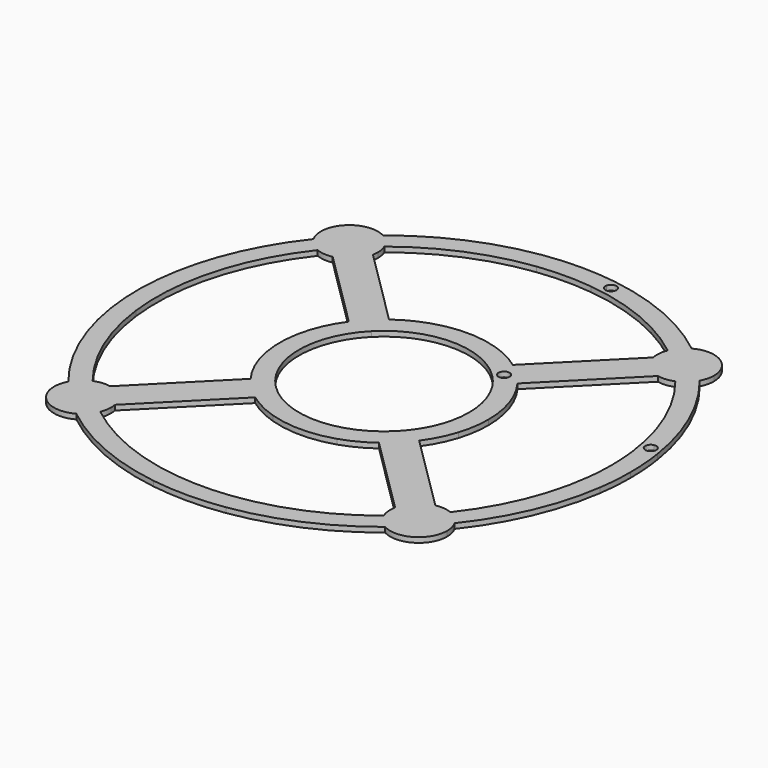
from build123d import *

# Parameters (mm, degrees)
F1_R     = 1.75
F2_DEPTH = 1.6


with BuildPart() as f2:
    # F1 (on Top) → F2 (new body)
    with BuildSketch(Plane.XY):
        with BuildLine():
            ThreePointArc((-26.6729625191, 19.4307249082), (-23.4209722091, 23.2477538868), (-19.628188614, 26.5279892139))
            Line((-19.628188614, 26.5279892139), (-44.3959890576, 51.1126103771))
            ThreePointArc((-44.3959890576, 51.1126103771), (-46.8419444181, 46.4955077737), (-51.4407629627, 44.0153460713))
            Line((-51.4407629627, 44.0153460713), (-26.6729625191, 19.4307249082))
        make_face()
        with BuildLine():
            ThreePointArc((44.4935100223, 56.6067802113), (50.7223715074, 51.1003036064), (56.2749347056, 44.9124896201))
            ThreePointArc((56.2749347056, 44.9124896201), (57.6209363633, 45.6069830087), (58.8314158832, 46.5173570313))
            ThreePointArc((58.8314158832, 46.5173570313), (52.8358036535, 53.2294829234), (46.0793558512, 59.1751042613))
            ThreePointArc((46.0793558512, 59.1751042613), (45.1779925873, 57.9579001717), (44.4935100223, 56.6067802113))
        make_face()
        with BuildLine():
            ThreePointArc((46.0793558512, 59.1751042613), (52.8358036535, 53.2294829234), (58.8314158832, 46.5173570313))
            ThreePointArc((58.8314158832, 46.5173570313), (59.8912744536, 47.6419672152), (60.743123089, 48.9313089687))
            ThreePointArc((60.743123089, 48.9313089687), (54.9492357996, 55.3586622403), (48.4790502235, 61.1046781305))
            ThreePointArc((48.4790502235, 61.1046781305), (47.1960674685, 60.2432818771), (46.0793558512, 59.1751042613))
        make_face()
        with BuildLine():
            ThreePointArc((59.1751040782, -46.0793560864), (57.9578999922, -45.1779928177), (56.6067800345, -44.4935102473))
            ThreePointArc((56.6067800345, -44.4935102473), (51.1003034048, -50.7223717105), (44.9124893964, -56.2749348842))
            ThreePointArc((44.9124893964, -56.2749348842), (45.6069827796, -57.6209365446), (46.5173567974, -58.8314160681))
            ThreePointArc((46.5173567974, -58.8314160681), (53.2294827133, -52.8358038651), (59.1751040782, -46.0793560864))
        make_face()
        with BuildLine():
            ThreePointArc((31.3926029739, 10.1737150796), (29.3435770147, 15.0981617418), (26.5279889799, 19.6281889303))
            ThreePointArc((26.5279889799, 19.6281889303), (23.2477536075, 23.4209724863), (19.4307245901, 26.6729627508))
            ThreePointArc((19.4307245901, 26.6729627508), (14.8799214401, 29.4548457463), (9.9404000552, 31.4672599179))
            ThreePointArc((9.9404000552, 31.4672599179), (13.9499388466, 24.9187160984), (18.9504414911, 19.0916412939))
            ThreePointArc((18.9504414911, 19.0916412939), (24.8144757312, 14.1345320797), (31.3926029739, 10.1737150796))
        make_face()
        with BuildLine():
            ThreePointArc((23.9786498541, 21.1853342035), (22.1626219281, 18.4619893235), (18.9504414911, 19.0916412939))
            ThreePointArc((18.9504414911, 19.0916412939), (19.8946777801, 23.9086790835), (23.9786498541, 21.1853342035))
        make_face(mode=Mode.SUBTRACT)
        with BuildLine():
            ThreePointArc((-19.4307248021, -26.6729625963), (-23.2477537937, -23.4209723015), (-26.5279891359, -19.6281887194))
            Line((-26.5279891359, -19.6281887194), (-51.1126102006, -44.3959892608))
            ThreePointArc((-51.1126102006, -44.3959892608), (-46.4955075875, -46.8419446029), (-44.0153458669, -51.4407631377))
            Line((-44.0153458669, -51.4407631377), (-19.4307248021, -26.6729625963))
        make_face()
        with BuildLine():
            ThreePointArc((-56.6067796807, 44.4935106974), (-51.1003030016, 50.7223721167), (-44.912488949, 56.2749352412))
            ThreePointArc((-44.912488949, 56.2749352412), (-45.6069823215, 57.6209369072), (-46.5173563297, 58.8314164379))
            ThreePointArc((-46.5173563297, 58.8314164379), (-53.2294822933, 52.8358042883), (-59.1751037118, 46.0793565568))
            ThreePointArc((-59.1751037118, 46.0793565568), (-57.957899633, 45.1779932785), (-56.6067796807, 44.4935106974))
        make_face()
        with BuildLine():
            ThreePointArc((19.4307245901, 26.6729627508), (23.2477536075, 23.4209724863), (26.5279889799, 19.6281889303))
            Line((26.5279889799, 19.6281889303), (51.1126098477, 44.3959896671))
            ThreePointArc((51.1126098477, 44.3959896671), (46.4955072151, 46.8419449726), (44.0153454579, 51.4407634876))
            Line((44.0153454579, 51.4407634876), (19.4307245901, 26.6729627508))
        make_face()
        with BuildLine():
            ThreePointArc((-46.0793563216, -59.175103895), (-52.8358040767, -53.2294825033), (-58.831416253, -46.5173565636))
            ThreePointArc((-58.831416253, -46.5173565636), (-59.8912748324, -47.6419667391), (-60.743123478, -48.9313084858))
            ThreePointArc((-60.743123478, -48.9313084858), (-54.9492362397, -55.3586618035), (-48.4790507093, -61.1046777451))
            ThreePointArc((-48.4790507093, -61.1046777451), (-47.1960679474, -60.2432815019), (-46.0793563216, -59.175103895))
        make_face()
        with BuildLine():
            ThreePointArc((61.1046779378, -48.4790504664), (60.2432816895, -47.1960677079), (59.1751040782, -46.0793560864))
            ThreePointArc((59.1751040782, -46.0793560864), (53.2294827133, -52.8358038651), (46.5173567974, -58.8314160681))
            ThreePointArc((46.5173567974, -58.8314160681), (47.6419669771, -59.891274643), (48.9313087273, -60.7431232835))
            ThreePointArc((48.9313087273, -60.7431232835), (55.3586620219, -54.9492360197), (61.1046779378, -48.4790504664))
        make_face()
        with BuildLine():
            Line((51.4407633127, -44.0153456624), (26.6729626735, -19.4307246961))
            ThreePointArc((26.6729626735, -19.4307246961), (23.4209723939, -23.2477537006), (19.6281888249, -26.5279890579))
            Line((19.6281888249, -26.5279890579), (44.395989464, -51.1126100242))
            ThreePointArc((44.395989464, -51.1126100242), (46.8419447877, -46.4955074013), (51.4407633127, -44.0153456624))
        make_face()
        with BuildLine():
            Line((51.4407633127, -44.0153456624), (26.6729626735, -19.4307246961))
            ThreePointArc((26.6729626735, -19.4307246961), (23.4209723939, -23.2477537006), (19.6281888249, -26.5279890579))
            Line((19.6281888249, -26.5279890579), (44.395989464, -51.1126100242))
            ThreePointArc((44.395989464, -51.1126100242), (46.8419447877, -46.4955074013), (51.4407633127, -44.0153456624))
        make_face()
        with BuildLine():
            ThreePointArc((-44.4935104723, -56.6067798576), (-50.7223719136, -51.1003032032), (-56.2749350627, -44.9124891727))
            ThreePointArc((-56.2749350627, -44.9124891727), (-57.6209367259, -45.6069825506), (-58.831416253, -46.5173565636))
            ThreePointArc((-58.831416253, -46.5173565636), (-52.8358040767, -53.2294825033), (-46.0793563216, -59.175103895))
            ThreePointArc((-46.0793563216, -59.175103895), (-45.1779930481, -57.9578998126), (-44.4935104723, -56.6067798576))
        make_face()
        with BuildLine():
            ThreePointArc((19.4307245901, 26.6729627508), (23.2477536075, 23.4209724863), (26.5279889799, 19.6281889303))
            Line((26.5279889799, 19.6281889303), (51.1126098477, 44.3959896671))
            ThreePointArc((51.1126098477, 44.3959896671), (46.4955072151, 46.8419449726), (44.0153454579, 51.4407634876))
            Line((44.0153454579, 51.4407634876), (19.4307245901, 26.6729627508))
        make_face()
        with BuildLine():
            ThreePointArc((-26.6729625191, 19.4307249082), (-23.4209722091, 23.2477538868), (-19.628188614, 26.5279892139))
            Line((-19.628188614, 26.5279892139), (-44.3959890576, 51.1126103771))
            ThreePointArc((-44.3959890576, 51.1126103771), (-46.8419444181, 46.4955077737), (-51.4407629627, 44.0153460713))
            Line((-51.4407629627, 44.0153460713), (-26.6729625191, 19.4307249082))
        make_face()
        with BuildLine():
            ThreePointArc((-19.4307248021, -26.6729625963), (-23.2477537937, -23.4209723015), (-26.5279891359, -19.6281887194))
            Line((-26.5279891359, -19.6281887194), (-51.1126102006, -44.3959892608))
            ThreePointArc((-51.1126102006, -44.3959892608), (-46.4955075875, -46.8419446029), (-44.0153458669, -51.4407631377))
            Line((-44.0153458669, -51.4407631377), (-19.4307248021, -26.6729625963))
        make_face()
        with BuildLine():
            ThreePointArc((-59.1751037118, 46.0793565568), (-53.2294822933, 52.8358042883), (-46.5173563297, 58.8314164379))
            ThreePointArc((-46.5173563297, 58.8314164379), (-47.641966501, 59.8912750217), (-48.9313082444, 60.7431236725))
            ThreePointArc((-48.9313082444, 60.7431236725), (-55.358661585, 54.9492364598), (-61.1046775524, 48.4790509522))
            ThreePointArc((-61.1046775524, 48.4790509522), (-60.2432813143, 47.1960681869), (-59.1751037118, 46.0793565568))
        make_face()
        with BuildLine():
            ThreePointArc((31.3926029739, 10.1737150796), (29.3435770147, 15.0981617418), (26.5279889799, 19.6281889303))
            ThreePointArc((26.5279889799, 19.6281889303), (23.2477536075, 23.4209724863), (19.4307245901, 26.6729627508))
            ThreePointArc((19.4307245901, 26.6729627508), (14.8799214401, 29.4548457463), (9.9404000552, 31.4672599179))
            ThreePointArc((9.9404000552, 31.4672599179), (13.9499388466, 24.9187160984), (18.9504414911, 19.0916412939))
            ThreePointArc((18.9504414911, 19.0916412939), (24.8144757312, 14.1345320797), (31.3926029739, 10.1737150796))
        make_face()
        with BuildLine():
            ThreePointArc((23.9786498541, 21.1853342035), (22.1626219281, 18.4619893235), (18.9504414911, 19.0916412939))
            ThreePointArc((18.9504414911, 19.0916412939), (19.8946777801, 23.9086790835), (23.9786498541, 21.1853342035))
        make_face(mode=Mode.SUBTRACT)
        with BuildLine():
            ThreePointArc((-19.0916411146, 18.9504416717), (-14.1345320056, 24.8144758346), (-10.1737150796, 31.3926029739))
            ThreePointArc((-10.1737150796, 31.3926029739), (-15.0981615668, 29.3435771047), (-19.628188614, 26.5279892139))
            ThreePointArc((-19.628188614, 26.5279892139), (-23.4209722091, 23.2477538868), (-26.6729625191, 19.4307249082))
            ThreePointArc((-26.6729625191, 19.4307249082), (-29.4548456575, 14.8799216157), (-31.4672599179, 9.9404000552))
            ThreePointArc((-31.4672599179, 9.9404000552), (-24.9187159955, 13.9499389215), (-19.0916411146, 18.9504416717))
        make_face()
        with BuildLine():
            ThreePointArc((-9.9404000552, -31.4672599179), (-13.9499389421, -24.9187159672), (-18.9504417215, -19.0916410652))
            ThreePointArc((-18.9504417215, -19.0916410652), (-24.8144758631, -14.1345319851), (-31.3926029739, -10.1737150796))
            ThreePointArc((-31.3926029739, -10.1737150796), (-29.3435770747, -15.0981616252), (-26.5279891359, -19.6281887194))
            ThreePointArc((-26.5279891359, -19.6281887194), (-23.2477537937, -23.4209723015), (-19.4307248021, -26.6729625963))
            ThreePointArc((-19.4307248021, -26.6729625963), (-14.8799215572, -29.4548456871), (-9.9404000552, -31.4672599179))
        make_face()
        with BuildLine():
            ThreePointArc((26.6729626735, -19.4307246961), (29.4548457167, -14.8799214987), (31.4672599179, -9.9404000552))
            ThreePointArc((31.4672599179, -9.9404000552), (24.9187162382, -13.9499387448), (19.0916415375, -18.9504412456))
            ThreePointArc((19.0916415375, -18.9504412456), (14.1345321804, -24.8144755906), (10.1737150796, -31.3926029739))
            ThreePointArc((10.1737150796, -31.3926029739), (15.0981616835, -29.3435770447), (19.6281888249, -26.5279890579))
            ThreePointArc((19.6281888249, -26.5279890579), (23.4209723939, -23.2477537006), (26.6729626735, -19.4307246961))
        make_face()
        with BuildLine():
            ThreePointArc((18.9504414911, 19.0916412939), (13.9499388466, 24.9187160984), (9.9404000552, 31.4672599179))
            ThreePointArc((9.9404000552, 31.4672599179), (-0.1224842438, 32.9997726903), (-10.1737150796, 31.3926029739))
            ThreePointArc((-10.1737150796, 31.3926029739), (-14.1345320056, 24.8144758346), (-19.0916411146, 18.9504416717))
            ThreePointArc((-19.0916411146, 18.9504416717), (-0.0998432108, 26.8998147082), (18.9504414911, 19.0916412939))
        make_face()
        with BuildLine():
            ThreePointArc((33, 0), (32.5956737784, 5.1499564008), (31.3926029739, 10.1737150796))
            ThreePointArc((31.3926029739, 10.1737150796), (24.8144757312, 14.1345320797), (18.9504414911, 19.0916412939))
            ThreePointArc((18.9504414911, 19.0916412939), (24.833212399, 10.3402882912), (26.9, 0))
            ThreePointArc((26.9, 0), (24.871420922, -10.248044756), (19.0916415375, -18.9504412456))
            ThreePointArc((19.0916415375, -18.9504412456), (24.9187162382, -13.9499387448), (31.4672599179, -9.9404000552))
            ThreePointArc((31.4672599179, -9.9404000552), (32.6145640573, -5.0289373981), (33, 0))
        make_face()
        with BuildLine():
            ThreePointArc((10.1737150796, -31.3926029739), (14.1345321804, -24.8144755906), (19.0916415375, -18.9504412456))
            ThreePointArc((19.0916415375, -18.9504412456), (0.0998433486, -26.8998147076), (-18.9504417215, -19.0916410652))
            ThreePointArc((-18.9504417215, -19.0916410652), (-13.9499389421, -24.9187159672), (-9.9404000552, -31.4672599179))
            ThreePointArc((-9.9404000552, -31.4672599179), (0.1224842438, -32.9997726903), (10.1737150796, -31.3926029739))
        make_face()
        with BuildLine():
            ThreePointArc((-18.9504417215, -19.0916410652), (-26.8998147088, -0.0998430485), (-19.0916411146, 18.9504416717))
            ThreePointArc((-19.0916411146, 18.9504416717), (-24.9187159955, 13.9499389215), (-31.4672599179, 9.9404000552))
            ThreePointArc((-31.4672599179, 9.9404000552), (-32.9997726903, -0.1224842438), (-31.3926029739, -10.1737150796))
            ThreePointArc((-31.3926029739, -10.1737150796), (-24.8144758631, -14.1345319851), (-18.9504417215, -19.0916410652))
        make_face()
        with BuildLine():
            ThreePointArc((44.0153454579, 51.4407634876), (46.4955072151, 46.8419449726), (51.1126098477, 44.3959896671))
            ThreePointArc((51.1126098477, 44.3959896671), (53.7317965155, 44.2741941625), (56.2749347056, 44.9124896201))
            ThreePointArc((56.2749347056, 44.9124896201), (50.7223715074, 51.1003036064), (44.4935100223, 56.6067802113))
            ThreePointArc((44.4935100223, 56.6067802113), (43.8741104673, 54.0589738732), (44.0153454579, 51.4407634876))
        make_face()
        with BuildLine():
            ThreePointArc((48.4790502235, 61.1046781305), (54.9492357996, 55.3586622403), (60.743123089, 48.9313089687))
            ThreePointArc((60.743123089, 48.9313089687), (61.5583570331, 51.0120378755), (61.8358036535, 53.2294829234))
            ThreePointArc((61.8358036535, 53.2294829234), (57.4068658457, 60.9822495544), (48.4790502235, 61.1046781305))
        make_face()
        with BuildLine():
            ThreePointArc((9.6348033014, 74.3785625388), (8.9674502133, 72.9570668211), (8.3468551387, 71.5145440403))
            ThreePointArc((8.3468551387, 71.5145440403), (27.4515282486, 66.5613521258), (44.4935100223, 56.6067802113))
            ThreePointArc((44.4935100223, 56.6067802113), (45.1779925873, 57.9579001717), (46.0793558512, 59.1751042613))
            ThreePointArc((46.0793558512, 59.1751042613), (31.6450383694, 67.9969965998), (15.6007602608, 73.359500266))
            ThreePointArc((15.6007602608, 73.359500266), (12.2040947218, 71.0088907956), (9.7871387881, 74.3586707408))
            ThreePointArc((9.7871387881, 74.3586707408), (9.710976138, 74.368655645), (9.6348033014, 74.3785625388))
        make_face()
        with BuildLine():
            ThreePointArc((15.6007602608, 73.359500266), (31.6450383694, 67.9969965998), (46.0793558512, 59.1751042613))
            ThreePointArc((46.0793558512, 59.1751042613), (47.1960674685, 60.2432818771), (48.4790502235, 61.1046781305))
            ThreePointArc((48.4790502235, 61.1046781305), (30.874392655, 71.6294065184), (11.1348455555, 77.2011348003))
            ThreePointArc((11.1348455555, 77.2011348003), (10.5971806936, 76.2405396233), (10.0816396497, 75.2678916758))
            ThreePointArc((10.0816396497, 75.2678916758), (13.3991887068, 76.7831265859), (15.6537766014, 73.91626384))
            ThreePointArc((15.6537766014, 73.91626384), (15.640492607, 73.6366228158), (15.6007602608, 73.359500266))
        make_face()
        with BuildLine():
            ThreePointArc((-8.8774945254, 71.4506129501), (-0.2672383501, 71.9995040515), (8.3468551387, 71.5145440403))
            ThreePointArc((8.3468551387, 71.5145440403), (8.9674502133, 72.9570668211), (9.6348033014, 74.3785625388))
            ThreePointArc((9.6348033014, 74.3785625388), (-0.2783732813, 74.999483387), (-10.1866674881, 74.3049917939))
            ThreePointArc((-10.1866674881, 74.3049917939), (-9.5087806885, 72.8884891618), (-8.8774945254, 71.4506129501))
        make_face()
        with BuildLine():
            ThreePointArc((-44.912488949, 56.2749352412), (-27.9448721419, 66.3557391713), (-8.8774945254, 71.4506129501))
            ThreePointArc((-8.8774945254, 71.4506129501), (-9.5087806885, 72.8884891618), (-10.1866674881, 74.3049917939))
            ThreePointArc((-10.1866674881, 74.3049917939), (-29.3886791615, 69.0022140017), (-46.5173563297, 58.8314164379))
            ThreePointArc((-46.5173563297, 58.8314164379), (-45.6069823215, 57.6209369072), (-44.912488949, 56.2749352412))
        make_face()
        with BuildLine():
            ThreePointArc((-46.5173563297, 58.8314164379), (-29.3886791615, 69.0022140017), (-10.1866674881, 74.3049917939))
            ThreePointArc((-10.1866674881, 74.3049917939), (-10.923784748, 75.7233090199), (-11.7076210332, 77.1163511179))
            ThreePointArc((-11.7076210332, 77.1163511179), (-31.4052635752, 71.3982452149), (-48.9313082444, 60.7431236725))
            ThreePointArc((-48.9313082444, 60.7431236725), (-47.641966501, 59.8912750217), (-46.5173563297, 58.8314164379))
        make_face()
        with BuildLine():
            ThreePointArc((-51.4407629627, 44.0153460713), (-46.8419444181, 46.4955077737), (-44.3959890576, 51.1126103771))
            ThreePointArc((-44.3959890576, 51.1126103771), (-44.2712056979, 51.9701944226), (-44.2294822933, 52.8358042883))
            ThreePointArc((-44.2294822933, 52.8358042883), (-44.4018852222, 54.5889528703), (-44.912488949, 56.2749352412))
            ThreePointArc((-44.912488949, 56.2749352412), (-51.1003030016, 50.7223721167), (-56.6067796807, 44.4935106974))
            ThreePointArc((-56.6067796807, 44.4935106974), (-54.05897335, 43.8741111119), (-51.4407629627, 44.0153460713))
        make_face()
        with BuildLine():
            ThreePointArc((-61.1046775524, 48.4790509522), (-55.358661585, 54.9492364598), (-48.9313082444, 60.7431236725))
            ThreePointArc((-48.9313082444, 60.7431236725), (-59.6170201685, 59.1761008028), (-61.1046775524, 48.4790509522))
        make_face()
        with BuildLine():
            ThreePointArc((-77.2011348003, 11.1348455555), (-75.8023124822, 10.3613717479), (-74.3785625388, 9.6348033014))
            ThreePointArc((-74.3785625388, 9.6348033014), (-69.2184715791, 28.8756505079), (-59.1751037118, 46.0793565568))
            ThreePointArc((-59.1751037118, 46.0793565568), (-60.2432813143, 47.1960681869), (-61.1046775524, 48.4790509522))
            ThreePointArc((-61.1046775524, 48.4790509522), (-71.6294063343, 30.8743930821), (-77.2011348003, 11.1348455555))
        make_face()
        with BuildLine():
            ThreePointArc((-74.3785625388, 9.6348033014), (-72.9570668211, 8.9674502133), (-71.5145440403, 8.3468551387))
            ThreePointArc((-71.5145440403, 8.3468551387), (-66.5613519621, 27.4515286455), (-56.6067796807, 44.4935106974))
            ThreePointArc((-56.6067796807, 44.4935106974), (-57.957899633, 45.1779932785), (-59.1751037118, 46.0793565568))
            ThreePointArc((-59.1751037118, 46.0793565568), (-69.2184715791, 28.8756505079), (-74.3785625388, 9.6348033014))
        make_face()
        with BuildLine():
            ThreePointArc((-71.4506129501, -8.8774945254), (-71.9995040515, -0.2672383501), (-71.5145440403, 8.3468551387))
            ThreePointArc((-71.5145440403, 8.3468551387), (-72.9570668211, 8.9674502133), (-74.3785625388, 9.6348033014))
            ThreePointArc((-74.3785625388, 9.6348033014), (-74.999483387, -0.2783732813), (-74.3049917939, -10.1866674881))
            ThreePointArc((-74.3049917939, -10.1866674881), (-72.8884891618, -9.5087806885), (-71.4506129501, -8.8774945254))
        make_face()
        with BuildLine():
            ThreePointArc((-74.3049917939, -10.1866674881), (-74.999483387, -0.2783732813), (-74.3785625388, 9.6348033014))
            ThreePointArc((-74.3785625388, 9.6348033014), (-75.8023124822, 10.3613717479), (-77.2011348003, 11.1348455555))
            ThreePointArc((-77.2011348003, 11.1348455555), (-77.9994627225, -0.2895082126), (-77.1163511179, -11.7076210332))
            ThreePointArc((-77.1163511179, -11.7076210332), (-75.7233090199, -10.923784748), (-74.3049917939, -10.1866674881))
        make_face()
        with BuildLine():
            ThreePointArc((-58.831416253, -46.5173565636), (-69.0022139433, -29.3886792986), (-74.3049917939, -10.1866674881))
            ThreePointArc((-74.3049917939, -10.1866674881), (-75.7233090199, -10.923784748), (-77.1163511179, -11.7076210332))
            ThreePointArc((-77.1163511179, -11.7076210332), (-71.3982451525, -31.4052637171), (-60.743123478, -48.9313084858))
            ThreePointArc((-60.743123478, -48.9313084858), (-59.8912748324, -47.6419667391), (-58.831416253, -46.5173565636))
        make_face()
        with BuildLine():
            ThreePointArc((-56.2749350627, -44.9124891727), (-66.3557391158, -27.9448722738), (-71.4506129501, -8.8774945254))
            ThreePointArc((-71.4506129501, -8.8774945254), (-72.8884891618, -9.5087806885), (-74.3049917939, -10.1866674881))
            ThreePointArc((-74.3049917939, -10.1866674881), (-69.0022139433, -29.3886792986), (-58.831416253, -46.5173565636))
            ThreePointArc((-58.831416253, -46.5173565636), (-57.6209367259, -45.6069825506), (-56.2749350627, -44.9124891727))
        make_face()
        with BuildLine():
            ThreePointArc((-44.0153458669, -51.4407631377), (-46.4955075875, -46.8419446029), (-51.1126102006, -44.3959892608))
            ThreePointArc((-51.1126102006, -44.3959892608), (-53.7317968674, -44.2741937353), (-56.2749350627, -44.9124891727))
            ThreePointArc((-56.2749350627, -44.9124891727), (-50.7223719136, -51.1003032032), (-44.4935104723, -56.6067798576))
            ThreePointArc((-44.4935104723, -56.6067798576), (-44.0017607657, -54.9498542017), (-43.8358040767, -53.2294825033))
            ThreePointArc((-43.8358040767, -53.2294825033), (-43.8808020139, -52.3306287578), (-44.0153458669, -51.4407631377))
        make_face()
        with BuildLine():
            ThreePointArc((-48.4790507093, -61.1046777451), (-54.9492362397, -55.3586618035), (-60.743123478, -48.9313084858))
            ThreePointArc((-60.743123478, -48.9313084858), (-59.1761005659, -59.6170204037), (-48.4790507093, -61.1046777451))
        make_face()
        with BuildLine():
            ThreePointArc((-11.1348455555, -77.2011348003), (-10.3613717479, -75.8023124822), (-9.6348033014, -74.3785625388))
            ThreePointArc((-9.6348033014, -74.3785625388), (-28.8756503703, -69.2184716365), (-46.0793563216, -59.175103895))
            ThreePointArc((-46.0793563216, -59.175103895), (-47.1960679474, -60.2432815019), (-48.4790507093, -61.1046777451))
            ThreePointArc((-48.4790507093, -61.1046777451), (-30.8743929398, -71.6294063957), (-11.1348455555, -77.2011348003))
        make_face()
        with BuildLine():
            ThreePointArc((-9.6348033014, -74.3785625388), (-8.9674502133, -72.9570668211), (-8.3468551387, -71.5145440403))
            ThreePointArc((-8.3468551387, -71.5145440403), (-27.4515285132, -66.5613520167), (-44.4935104723, -56.6067798576))
            ThreePointArc((-44.4935104723, -56.6067798576), (-45.1779930481, -57.9578998126), (-46.0793563216, -59.175103895))
            ThreePointArc((-46.0793563216, -59.175103895), (-28.8756503703, -69.2184716365), (-9.6348033014, -74.3785625388))
        make_face()
        with BuildLine():
            ThreePointArc((10.1866674881, -74.3049917939), (9.5087806885, -72.8884891618), (8.8774945254, -71.4506129501))
            ThreePointArc((8.8774945254, -71.4506129501), (0.2672383501, -71.9995040515), (-8.3468551387, -71.5145440403))
            ThreePointArc((-8.3468551387, -71.5145440403), (-8.9674502133, -72.9570668211), (-9.6348033014, -74.3785625388))
            ThreePointArc((-9.6348033014, -74.3785625388), (0.2783732813, -74.999483387), (10.1866674881, -74.3049917939))
        make_face()
        with BuildLine():
            ThreePointArc((11.7076210332, -77.1163511179), (10.923784748, -75.7233090199), (10.1866674881, -74.3049917939))
            ThreePointArc((10.1866674881, -74.3049917939), (0.2783732813, -74.999483387), (-9.6348033014, -74.3785625388))
            ThreePointArc((-9.6348033014, -74.3785625388), (-10.3613717479, -75.8023124822), (-11.1348455555, -77.2011348003))
            ThreePointArc((-11.1348455555, -77.2011348003), (0.2895082126, -77.9994627225), (11.7076210332, -77.1163511179))
        make_face()
        with BuildLine():
            ThreePointArc((48.9313087273, -60.7431232835), (47.6419669771, -59.891274643), (46.5173567974, -58.8314160681))
            ThreePointArc((46.5173567974, -58.8314160681), (29.3886794358, -69.0022138849), (10.1866674881, -74.3049917939))
            ThreePointArc((10.1866674881, -74.3049917939), (10.923784748, -75.7233090199), (11.7076210332, -77.1163511179))
            ThreePointArc((11.7076210332, -77.1163511179), (31.405263859, -71.3982450901), (48.9313087273, -60.7431232835))
        make_face()
        with BuildLine():
            ThreePointArc((46.5173567974, -58.8314160681), (45.6069827796, -57.6209365446), (44.9124893964, -56.2749348842))
            ThreePointArc((44.9124893964, -56.2749348842), (27.9448724057, -66.3557390602), (8.8774945254, -71.4506129501))
            ThreePointArc((8.8774945254, -71.4506129501), (9.5087806885, -72.8884891618), (10.1866674881, -74.3049917939))
            ThreePointArc((10.1866674881, -74.3049917939), (29.3886794358, -69.0022138849), (46.5173567974, -58.8314160681))
        make_face()
        with BuildLine():
            ThreePointArc((56.6067800345, -44.4935102473), (54.0589736988, -43.8741106821), (51.4407633127, -44.0153456624))
            ThreePointArc((51.4407633127, -44.0153456624), (46.8419447877, -46.4955074013), (44.395989464, -51.1126100242))
            ThreePointArc((44.395989464, -51.1126100242), (44.2741939489, -53.7317966914), (44.9124893964, -56.2749348842))
            ThreePointArc((44.9124893964, -56.2749348842), (51.1003034048, -50.7223717105), (56.6067800345, -44.4935102473))
        make_face()
        with BuildLine():
            ThreePointArc((62.2294827133, -52.8358038651), (61.9437456489, -50.585999098), (61.1046779378, -48.4790504664))
            ThreePointArc((61.1046779378, -48.4790504664), (55.3586620219, -54.9492360197), (48.9313087273, -60.7431232835))
            ThreePointArc((48.9313087273, -60.7431232835), (57.8292889117, -60.5715509484), (62.2294827133, -52.8358038651))
        make_face()
        with BuildLine():
            ThreePointArc((77.2011348003, -11.1348455555), (75.8023124822, -10.3613717479), (74.3785625388, -9.6348033014))
            ThreePointArc((74.3785625388, -9.6348033014), (69.2184716939, -28.8756502328), (59.1751040782, -46.0793560864))
            ThreePointArc((59.1751040782, -46.0793560864), (60.2432816895, -47.1960677079), (61.1046779378, -48.4790504664))
            ThreePointArc((61.1046779378, -48.4790504664), (71.6294064571, -30.8743927974), (77.2011348003, -11.1348455555))
        make_face()
        with BuildLine():
            ThreePointArc((74.3785625388, -9.6348033014), (72.9570668211, -8.9674502133), (71.5145440403, -8.3468551387))
            ThreePointArc((71.5145440403, -8.3468551387), (66.5613520713, -27.4515283809), (56.6067800345, -44.4935102473))
            ThreePointArc((56.6067800345, -44.4935102473), (57.9578999922, -45.1779928177), (59.1751040782, -46.0793560864))
            ThreePointArc((59.1751040782, -46.0793560864), (69.2184716939, -28.8756502328), (74.3785625388, -9.6348033014))
        make_face()
        with BuildLine():
            ThreePointArc((74.3049917939, 10.1866674881), (72.8884891618, 9.5087806885), (71.4506129501, 8.8774945254))
            ThreePointArc((71.4506129501, 8.8774945254), (71.8625219861, 4.4472388956), (72, 0))
            ThreePointArc((72, 0), (71.8785335511, -4.1804801816), (71.5145440403, -8.3468551387))
            ThreePointArc((71.5145440403, -8.3468551387), (72.9570668211, -8.9674502133), (74.3785625388, -9.6348033014))
            ThreePointArc((74.3785625388, -9.6348033014), (74.8444793903, -4.8274118111), (75, 0))
            ThreePointArc((75, 0), (74.8260462157, 5.1051746033), (74.3049917939, 10.1866674881))
        make_face()
        with BuildLine():
            ThreePointArc((56.2749347056, 44.9124896201), (66.3557390047, 27.9448725376), (71.4506129501, 8.8774945254))
            ThreePointArc((71.4506129501, 8.8774945254), (72.8884891618, 9.5087806885), (74.3049917939, 10.1866674881))
            ThreePointArc((74.3049917939, 10.1866674881), (74.294519724, 10.2627646847), (74.2839697216, 10.338851116))
            ThreePointArc((74.2839697216, 10.338851116), (70.9163404363, 12.730874248), (73.2416708902, 16.1448953297))
            ThreePointArc((73.2416708902, 16.1448953297), (67.7602145061, 32.1489242445), (58.8314158832, 46.5173570313))
            ThreePointArc((58.8314158832, 46.5173570313), (57.6209363633, 45.6069830087), (56.2749347056, 44.9124896201))
        make_face()
        with BuildLine():
            ThreePointArc((60.743123089, 48.9313089687), (59.8912744536, 47.6419672152), (58.8314158832, 46.5173570313))
            ThreePointArc((58.8314158832, 46.5173570313), (67.7602145061, 32.1489242445), (73.2416708902, 16.1448953297))
            ThreePointArc((73.2416708902, 16.1448953297), (75.6903054935, 15.533390247), (76.7699241183, 13.2521244774))
            ThreePointArc((76.7699241183, 13.2521244774), (76.3445146932, 11.7260371833), (75.1909800986, 10.6400935628))
            ThreePointArc((75.1909800986, 10.6400935628), (76.1597739387, 11.1628404363), (77.1163511179, 11.7076210332))
            ThreePointArc((77.1163511179, 11.7076210332), (71.3982450277, 31.4052640009), (60.743123089, 48.9313089687))
        make_face()
        with BuildLine():
            ThreePointArc((10.0816396497, 75.2678916758), (9.8973238312, 74.8252868586), (9.7871387881, 74.3586707408))
            ThreePointArc((9.7871387881, 74.3586707408), (10.3817631463, 74.2779845848), (10.9757229085, 74.1925434706))
            ThreePointArc((10.9757229085, 74.1925434706), (12.8423515583, 75.6607686354), (14.4537766014, 73.91626384))
            ThreePointArc((14.4537766014, 73.91626384), (14.4465459618, 73.7573457583), (14.4249137938, 73.5997409102))
            ThreePointArc((14.4249137938, 73.5997409102), (15.0133175714, 73.4819725885), (15.6007602608, 73.359500266))
            ThreePointArc((15.6007602608, 73.359500266), (15.640492607, 73.6366228158), (15.6537766014, 73.91626384))
            ThreePointArc((15.6537766014, 73.91626384), (13.3991887068, 76.7831265859), (10.0816396497, 75.2678916758))
        make_face()
        with BuildLine():
            ThreePointArc((10.9757229085, 74.1925434706), (10.3817631463, 74.2779845848), (9.7871387881, 74.3586707408))
            ThreePointArc((9.7871387881, 74.3586707408), (12.2040947218, 71.0088907956), (15.6007602608, 73.359500266))
            ThreePointArc((15.6007602608, 73.359500266), (15.0133175714, 73.4819725885), (14.4249137938, 73.5997409102))
            ThreePointArc((14.4249137938, 73.5997409102), (12.4073551474, 72.191551017), (10.9757229085, 74.1925434706))
        make_face()
        with BuildLine():
            ThreePointArc((74.1090238877, 11.5261692858), (74.1988717515, 10.9328601383), (74.2839697216, 10.338851116))
            ThreePointArc((74.2839697216, 10.338851116), (74.7497553979, 10.4524970394), (75.1909800986, 10.6400935628))
            ThreePointArc((75.1909800986, 10.6400935628), (76.3445146932, 11.7260371833), (76.7699241183, 13.2521244774))
            ThreePointArc((76.7699241183, 13.2521244774), (75.6903054935, 15.533390247), (73.2416708902, 16.1448953297))
            ThreePointArc((73.2416708902, 16.1448953297), (73.3685005642, 15.5583779669), (73.4906335013, 14.9708646234))
            ThreePointArc((73.4906335013, 14.9708646234), (74.9348773506, 14.6009681636), (75.5699241183, 13.2521244774))
            ThreePointArc((75.5699241183, 13.2521244774), (75.1556682174, 12.1215106168), (74.1090238877, 11.5261692858))
        make_face()
        with BuildLine():
            ThreePointArc((73.2416708902, 16.1448953297), (70.9163404363, 12.730874248), (74.2839697216, 10.338851116))
            ThreePointArc((74.2839697216, 10.338851116), (74.1988717515, 10.9328601383), (74.1090238877, 11.5261692858))
            ThreePointArc((74.1090238877, 11.5261692858), (72.0974592222, 12.9429082396), (73.4906335013, 14.9708646234))
            ThreePointArc((73.4906335013, 14.9708646234), (73.3685005642, 15.5583779669), (73.2416708902, 16.1448953297))
        make_face()
        with BuildLine():
            ThreePointArc((75.1909800986, 10.6400935628), (74.7491587511, 10.411088881), (74.3049917939, 10.1866674881))
            ThreePointArc((74.3049917939, 10.1866674881), (74.8260462157, 5.1051746033), (75, 0))
            ThreePointArc((75, 0), (74.8444793903, -4.8274118111), (74.3785625388, -9.6348033014))
            ThreePointArc((74.3785625388, -9.6348033014), (75.8023124822, -10.3613717479), (77.2011348003, -11.1348455555))
            ThreePointArc((77.2011348003, -11.1348455555), (77.80002736, -5.5817329556), (78, 0))
            ThreePointArc((78, 0), (77.7787740556, 5.8704604931), (77.1163511179, 11.7076210332))
            ThreePointArc((77.1163511179, 11.7076210332), (76.1597739387, 11.1628404363), (75.1909800986, 10.6400935628))
        make_face()
        with BuildLine():
            ThreePointArc((74.2839697216, 10.338851116), (74.294519724, 10.2627646847), (74.3049917939, 10.1866674881))
            ThreePointArc((74.3049917939, 10.1866674881), (74.7491587511, 10.411088881), (75.1909800986, 10.6400935628))
            ThreePointArc((75.1909800986, 10.6400935628), (74.7497553979, 10.4524970394), (74.2839697216, 10.338851116))
        make_face()
        with BuildLine():
            ThreePointArc((10.0816396497, 75.2678916758), (9.8559211916, 74.8243828667), (9.6348033014, 74.3785625388))
            ThreePointArc((9.6348033014, 74.3785625388), (9.710976138, 74.368655645), (9.7871387881, 74.3586707408))
            ThreePointArc((9.7871387881, 74.3586707408), (9.8973238312, 74.8252868586), (10.0816396497, 75.2678916758))
        make_face()
        with BuildLine():
            ThreePointArc((-10.1866674881, 74.3049917939), (-0.2783732813, 74.999483387), (9.6348033014, 74.3785625388))
            ThreePointArc((9.6348033014, 74.3785625388), (9.8559211916, 74.8243828667), (10.0816396497, 75.2678916758))
            ThreePointArc((10.0816396497, 75.2678916758), (10.5971806936, 76.2405396233), (11.1348455555, 77.2011348003))
            ThreePointArc((11.1348455555, 77.2011348003), (-0.2895082126, 77.9994627225), (-11.7076210332, 77.1163511179))
            ThreePointArc((-11.7076210332, 77.1163511179), (-10.923784748, 75.7233090199), (-10.1866674881, 74.3049917939))
        make_face()
        with BuildLine():
            ThreePointArc((23.9786498541, 21.1853342035), (19.8946777801, 23.9086790835), (18.9504414911, 19.0916412939))
            ThreePointArc((18.9504414911, 19.0916412939), (22.1626219281, 18.4619893235), (23.9786498541, 21.1853342035))
        make_face()
        with Locations((21.0286498541, 21.1853342035)):
            Circle(F1_R, mode=Mode.SUBTRACT)
    extrude(amount=F2_DEPTH)


solid = f2.part
